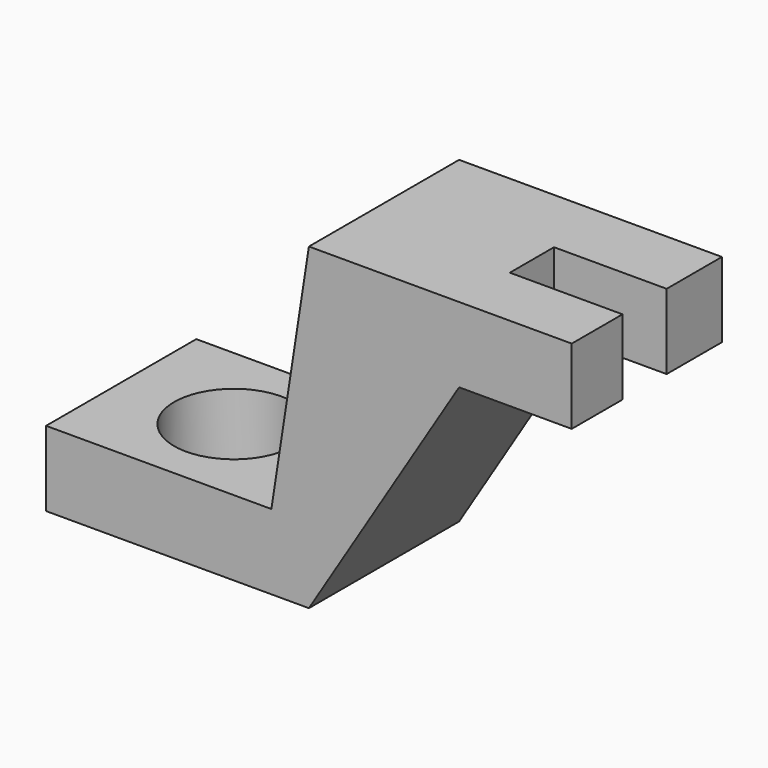
from build123d import *

# Parameters (mm, degrees)
F1_DEPTH = 31.75
F2_R     = 10.096628
F3_DEPTH = 15.748
F4_W     = 19.05
F4_H     = 9.336647
F5_DEPTH = 12.7


with BuildPart() as f1:
    # F0 (on Front) → F1 (new body)
    with BuildSketch(Plane.XZ):
        Polygon((-6.35, 0), (-44.45, 0), (-44.45, -12.7), (0, -12.7), (25.4, 28.448), (44.45, 28.448), (44.45, 41.148), (0, 41.148), align=None)
    extrude(amount=F1_DEPTH)

    # F2 (on face) → F3 (cut)
    with BuildSketch(Plane.XY):
        with Locations((-25.4, -15.875)):
            Circle(F2_R)
    extrude(amount=-F3_DEPTH, mode=Mode.SUBTRACT)

    # F4 (on face) → F5 (cut)
    with BuildSketch(Plane.XY.offset(41.148)):
        with Locations((34.925, -16.351854)):
            Rectangle(F4_W, F4_H)
    extrude(amount=-F5_DEPTH, mode=Mode.SUBTRACT)


solid = f1.part
